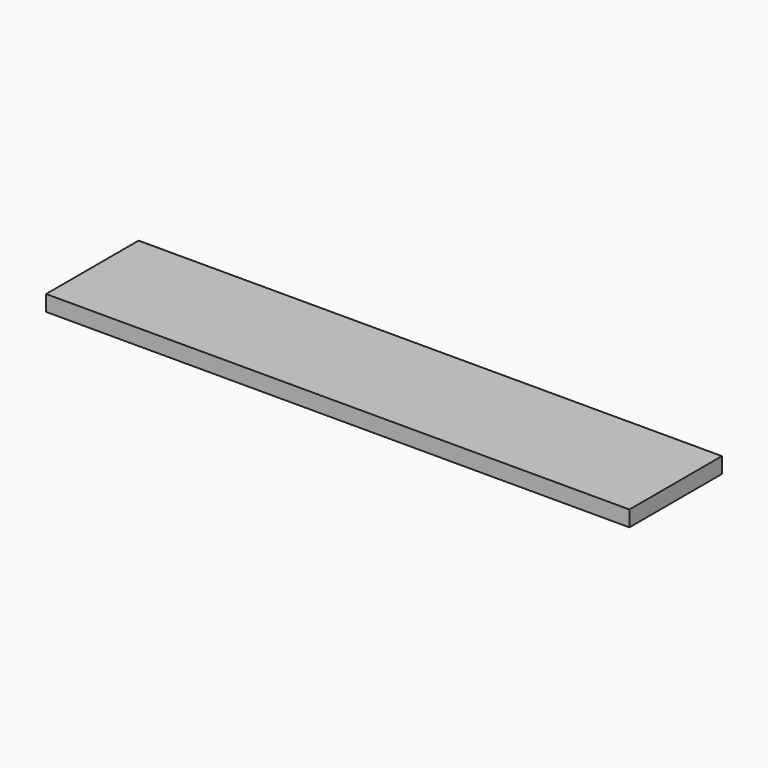
from build123d import *

# Parameters (mm, degrees)
SKETCH_W  = 111
SKETCH_H  = 22
PAD_DEPTH = 3


with BuildPart() as part:
    # Sketch → Pad (new body)
    with BuildSketch(Plane.XY):
        Rectangle(SKETCH_W, SKETCH_H)
    extrude(amount=PAD_DEPTH)


solid = part.part
